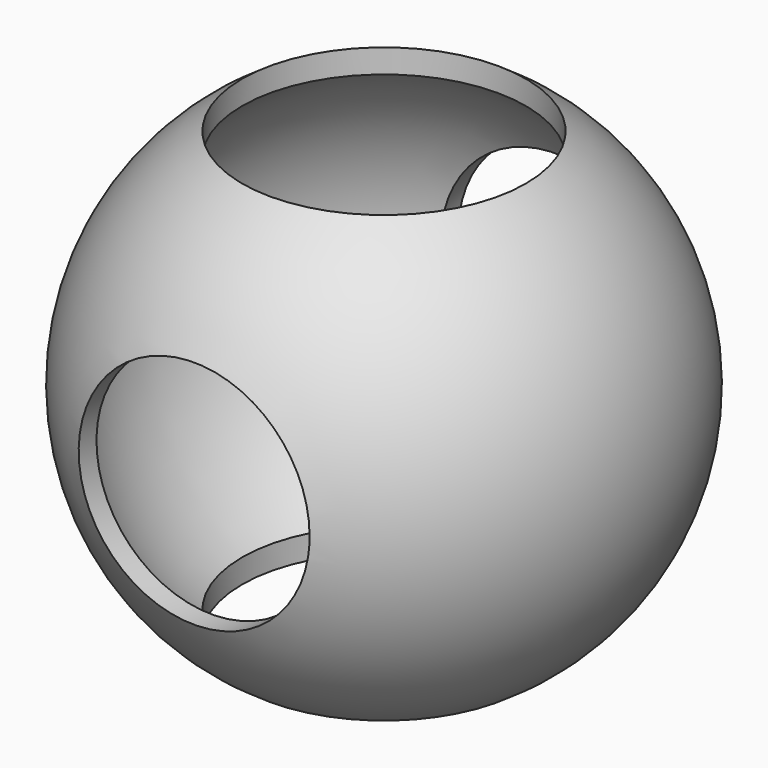
from build123d import *

# Parameters (mm, degrees)
F2_R          = 17.5
F3_DEPTH      = 40.001
F3_DEPTH_BACK = 40.001
F4_R          = 21.5
F5_DEPTH      = 40.001
F5_DEPTH_BACK = 40.001


with BuildPart() as f1:
    # F0 (on Front) → F1 (revolve)
    with BuildSketch(Plane.XZ):
        with BuildLine():
            Line((0, 37), (0, 40))
            ThreePointArc((0, 40), (-40, 0), (0, -40))
            Line((0, -40), (0, -37))
            ThreePointArc((0, -37), (-37, 0), (0, 37))
        make_face()
    revolve(axis=Axis((0, 0, -38.5), (0, 0, -1)))

    # F2 (on Front) → F3 (cut, two sides)
    with BuildSketch(Plane.XZ) as f3_sk:
        Circle(F2_R)
    extrude(amount=F3_DEPTH, mode=Mode.SUBTRACT)
    extrude(f3_sk.sketch, amount=-F3_DEPTH_BACK, mode=Mode.SUBTRACT)

    # F4 (on Top) → F5 (cut, two sides)
    with BuildSketch(Plane.XY) as f5_sk:
        Circle(F4_R)
    extrude(amount=F5_DEPTH, mode=Mode.SUBTRACT)
    extrude(f5_sk.sketch, amount=-F5_DEPTH_BACK, mode=Mode.SUBTRACT)


solid = f1.part
